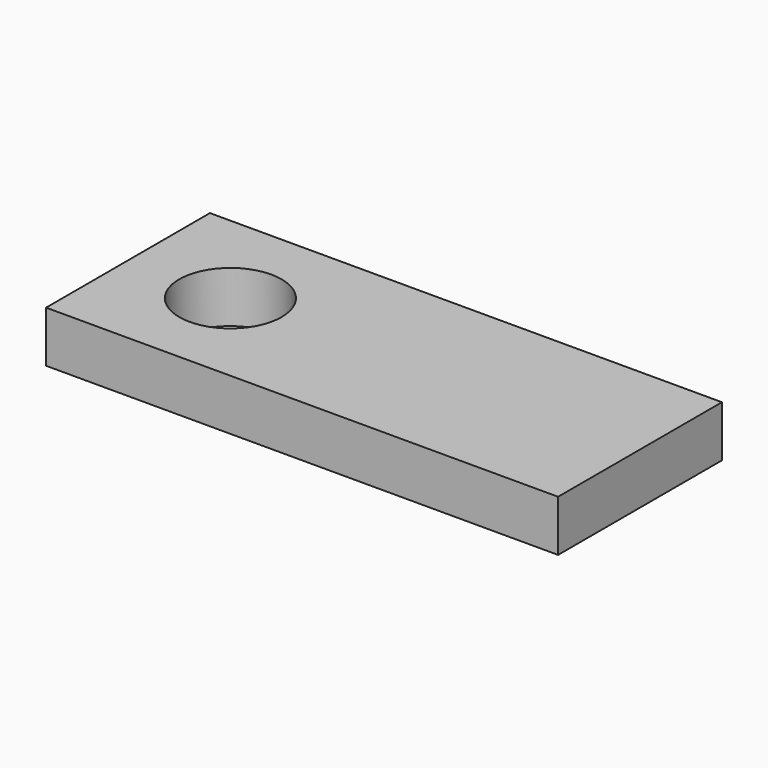
from build123d import *

# Parameters (mm, degrees)
F0_W     = 100
F0_H     = 40
F0_R     = 10
F1_DEPTH = 10


with BuildPart() as f1:
    # F0 (on Top) → F1 (new body)
    with BuildSketch(Plane.XY):
        with Locations((-46.849999, 35.900001)):
            Rectangle(F0_W, F0_H)
        with Locations((-76.849999, 35.900001)):
            Circle(F0_R, mode=Mode.SUBTRACT)
    extrude(amount=-F1_DEPTH)


solid = f1.part
